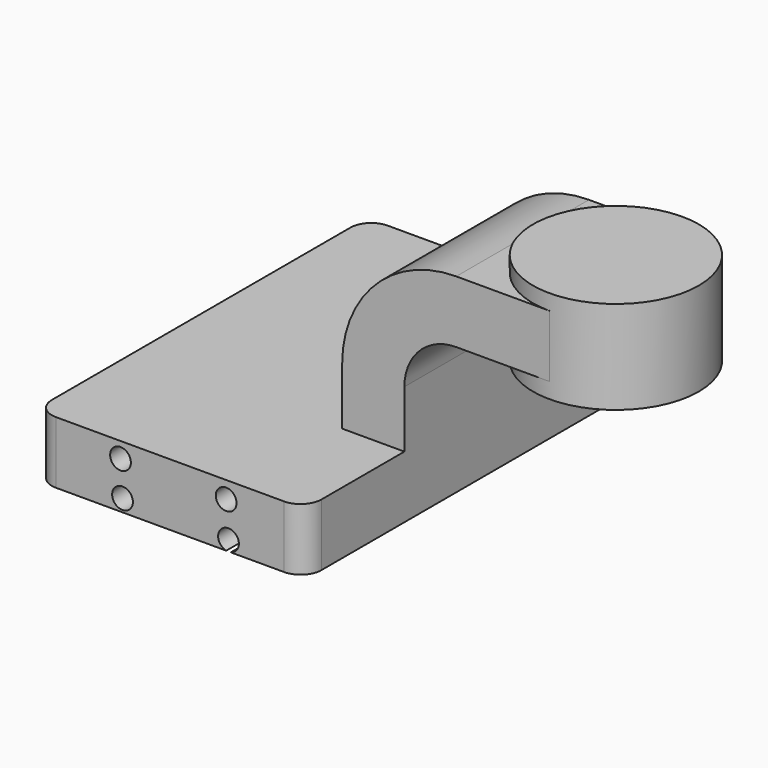
from build123d import *

# Parameters (mm, degrees)
F1_DEPTH = 63.5
F2_DEPTH = 25.4
F0_W     = 25.4
F0_H     = 19.05
F3_DEPTH = 25.4
F5_R     = 6.35
F7_D     = 6.35
F7_DEPTH = 63.501


with BuildPart() as f1:
    # F0 (on Front) → F1 (new body, symmetric)
    with BuildSketch(Plane.XZ):
        Polygon((41.275, -9.525), (41.275, 9.525), (22.225, 9.525), (-41.275, 9.525), (-41.275, -9.525), align=None)
    extrude(amount=F1_DEPTH, both=True)

    # F0 (on Front) → F2 (join, symmetric)
    with BuildSketch(Plane.XZ):
        with BuildLine():
            Line((22.225, 9.525), (41.275, 9.525))
            Line((41.275, 9.525), (41.275, 27.0002))
            ThreePointArc((41.275, 27.0002), (45.9246798487, 38.2255201513), (57.15, 42.8752))
            Line((57.15, 42.8752), (60.325, 42.8752))
            Line((60.325, 42.8752), (60.325, 61.9252))
            Line((60.325, 61.9252), (57.15, 61.9252))
            ThreePointArc((57.15, 61.9252), (32.4542956671, 51.6959043329), (22.225, 27.0002))
            Line((22.225, 27.0002), (22.225, 9.525))
        make_face()
    extrude(amount=F2_DEPTH, both=True)

    # F0 (on Front) → F3 (join, symmetric)
    with BuildSketch(Plane.XZ):
        with Locations((73.025, 52.4002)):
            Rectangle(F0_W, F0_H)
    extrude(amount=F3_DEPTH, both=True)

    # F0 (on Front) → F4 (revolve)
    with BuildSketch(Plane.XZ):
        Polygon((85.725, 61.9252), (85.725, 42.8752), (85.725, 38.1), (111.125, 38.1), (111.125, 66.675), (85.725, 66.675), align=None)
    revolve(axis=Axis((85.725, 0, 52.3875), (0, 0, 1)))

    # F5
    f5_edges = [f1.edges().sort_by_distance(p)[0] for p in [
        (-41.275, -63.5, 0),
        (41.275, -63.5, 0),
        (41.275, 63.5, 0),
        (-41.275, 63.5, 0),
    ]]
    fillet(f5_edges, radius=F5_R)

    # F7 (through all, one way)
    with BuildSketch(Plane(origin=(0, 0, 0), x_dir=(1, 0, 0), z_dir=(0, 1, 0))):
        with Locations((17.1776954085, -4.3224697001), (-15.1745518669, -4.7319913283), (-14.5602682605, 5.7108225301), (17.8943593055, 6.4274864271)):
            Circle(F7_D / 2)
    extrude(amount=-F7_DEPTH, mode=Mode.SUBTRACT)


solid = f1.part
